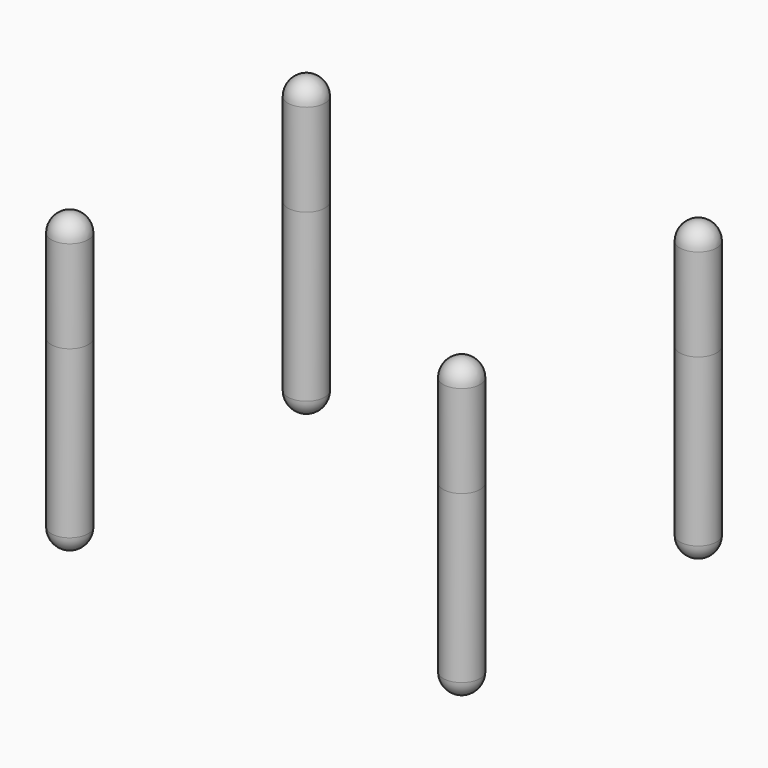
from build123d import *

# Parameters (mm, degrees)
F0_R      = 5
F1_DEPTH  = 50
F1_FACE_R = 5
F2_DEPTH  = 30
F3_R      = 5
F3_2_R    = 5


with BuildPart() as f1:
    # F0 (on Top) → F1 (new body)
    with BuildSketch(Plane.XY):
        with Locations((-55, 55)):
            Circle(F0_R)
        with Locations((51, 55)):
            Circle(F0_R)
        with Locations((51, -25)):
            Circle(F0_R)
        with Locations((-55, -25)):
            Circle(F0_R)
    extrude(amount=-F1_DEPTH)

    # F3#2
    f3_2_edges = [f1.edges().sort_by_distance(p)[0] for p in [
        (-60, 55, -50),
        (46, 55, -50),
        (46, -25, -50),
        (-60, -25, -50),
    ]]
    fillet(f3_2_edges, radius=F3_2_R)


with BuildPart() as f2:
    # F1_face (on face) → F2 (new body)
    with BuildSketch(Plane(origin=(-55, 55, 0), x_dir=(1, 0, 0), z_dir=(0, 0, 1))):
        Circle(F1_FACE_R)
        with Locations((106, 0)):
            Circle(F1_FACE_R)
        with Locations((106, -80)):
            Circle(F1_FACE_R)
        with Locations((0, -80)):
            Circle(F1_FACE_R)
    extrude(amount=F2_DEPTH)

    # F3
    f3_edges = [f2.edges().sort_by_distance(p)[0] for p in [
        (-60, 55, 30),
        (46, 55, 30),
        (46, -25, 30),
        (-60, -25, 30),
    ]]
    fillet(f3_edges, radius=F3_R)


solid = Compound([f1.part, f2.part])
